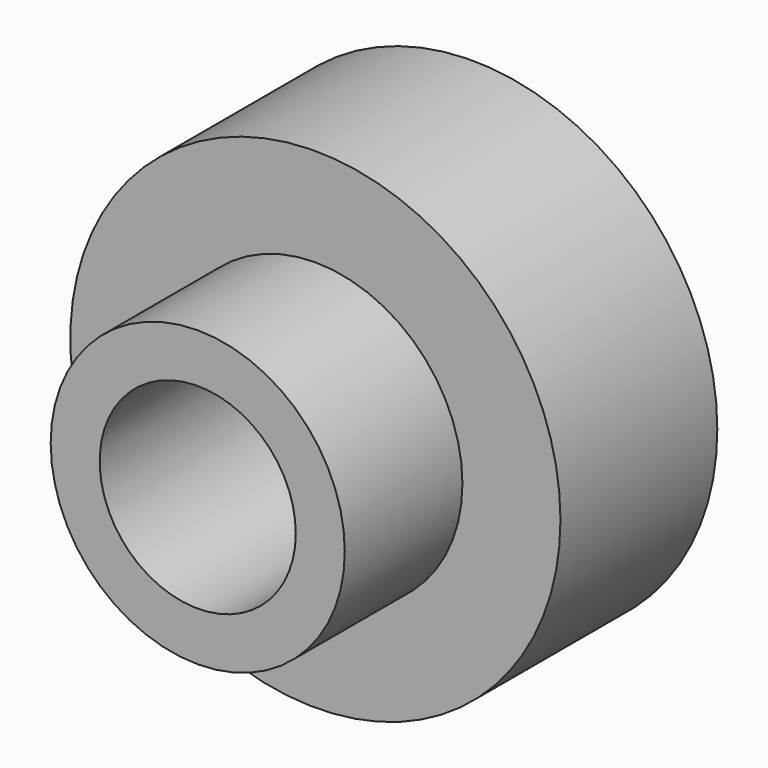
from build123d import *

# Parameters (mm, degrees)
F0_R     = 31.75
F1_DEPTH = 25.4
F2_R     = 19.05
F3_DEPTH = 19.05
F4_R     = 12.7
F5_DEPTH = 44.451


with BuildPart() as f1:
    # F0 (on Front) → F1 (new body)
    with BuildSketch(Plane.XZ):
        with Locations((-49.889959, 51.983241)):
            Circle(F0_R)
    extrude(amount=F1_DEPTH)

    # F2 (on face) → F3 (join)
    with BuildSketch(Plane.XZ.offset(25.4)):
        with Locations((-49.889959, 51.983241)):
            Circle(F2_R)
    extrude(amount=F3_DEPTH)

    # F4 (on face) → F5 (cut, through all)
    with BuildSketch(Plane.XZ.offset(44.45)):
        with Locations((-49.889959, 51.983241)):
            Circle(F4_R)
    extrude(amount=-F5_DEPTH, mode=Mode.SUBTRACT)


solid = f1.part
